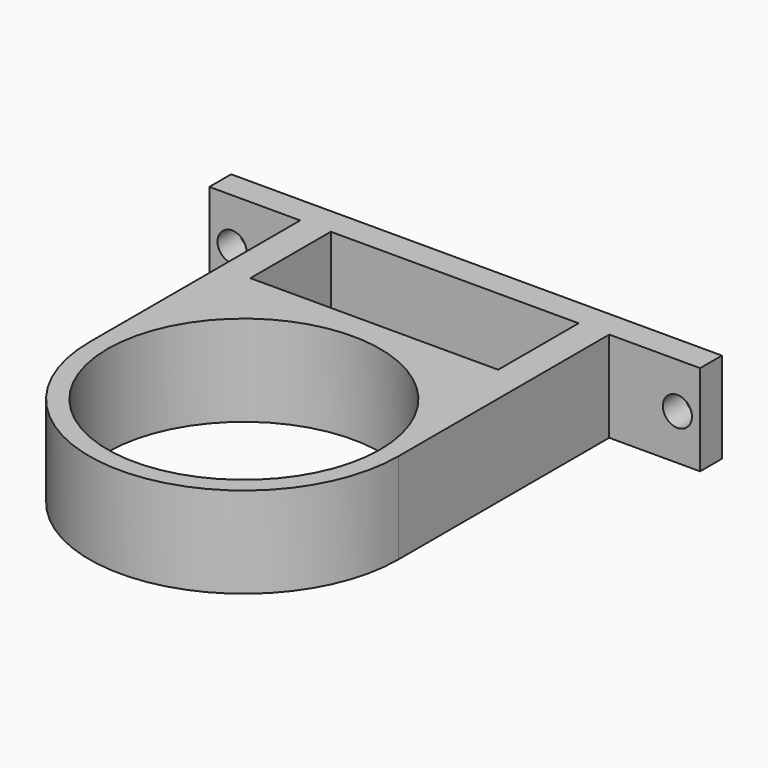
from build123d import *

# Parameters (mm, degrees)
F0_W     = 27.270341292
F0_H     = 11.066971153
F1_DEPTH = 10
F3_DEPTH = 49.001


with BuildPart() as f1:
    # F0 (on Top) → F1 (new body)
    with BuildSketch(Plane.XY):
        with BuildLine():
            ThreePointArc((-17, 0), (0, 17), (17, 0))
            Line((17, 0), (17, 29))
            Line((17, 29), (27, 29))
            Line((27, 29), (27, 32))
            Line((27, 32), (17, 32))
            Line((17, 32), (-17, 32))
            Line((-17, 32), (-27, 32))
            Line((-27, 32), (-27, 29))
            Line((-27, 29), (-17, 29))
            Line((-17, 29), (-17, 0))
        make_face()
        with Locations((0, 23.4665144235)):
            Rectangle(F0_W, F0_H, mode=Mode.SUBTRACT)
        with BuildLine():
            Line((17, 0), (15, 0))
            ThreePointArc((15, 0), (0, -15), (-15, 0))
            Line((-15, 0), (-17, 0))
            ThreePointArc((-17, 0), (0, -17), (17, 0))
        make_face()
        with BuildLine():
            ThreePointArc((-15, 0), (0, 15), (15, 0))
            Line((15, 0), (17, 0))
            ThreePointArc((17, 0), (0, 17), (-17, 0))
            Line((-17, 0), (-15, 0))
        make_face()
    extrude(amount=F1_DEPTH)

    # F2 (on face) → F3 (cut, through all)
    with BuildSketch(Plane(origin=(0, 32, 0), x_dir=(-1, 0, 0), z_dir=(0, 1, 0))):
        with BuildLine():
            Line((-26.1, 5), (-22.9, 5))
            ThreePointArc((-22.9, 5), (-24.5, 6.6), (-26.1, 5))
        make_face()
        with BuildLine():
            ThreePointArc((-26.1, 5), (-24.5, 3.4), (-22.9, 5))
            Line((-22.9, 5), (-26.1, 5))
        make_face()
        with BuildLine():
            Line((22.9, 5), (26.1, 5))
            ThreePointArc((26.1, 5), (24.5, 6.6), (22.9, 5))
        make_face()
        with BuildLine():
            ThreePointArc((22.9, 5), (24.5, 3.4), (26.1, 5))
            Line((26.1, 5), (22.9, 5))
        make_face()
    extrude(amount=-F3_DEPTH, mode=Mode.SUBTRACT)


solid = f1.part
